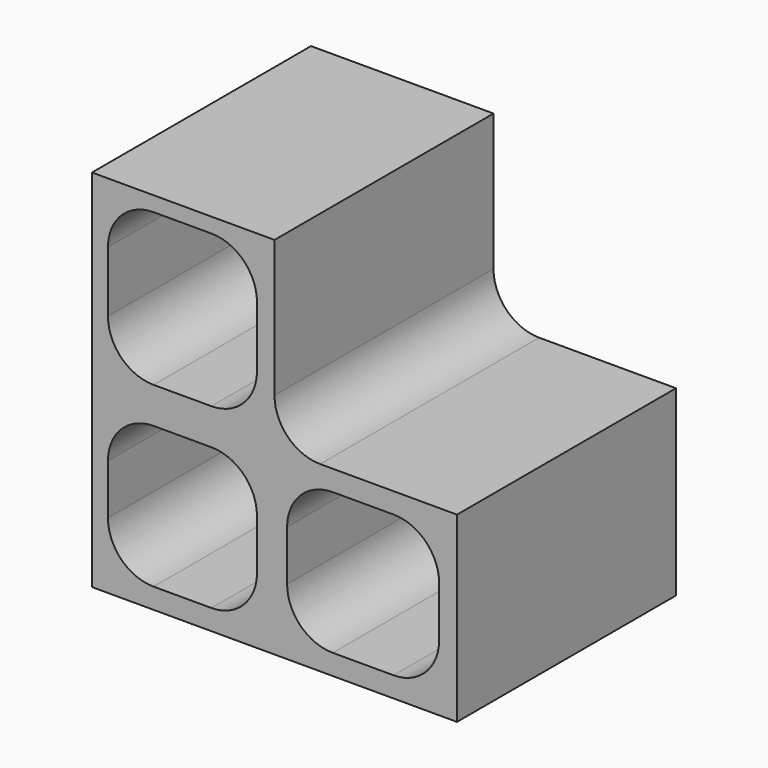
from build123d import *

# Parameters (mm, degrees)
F0_W     = 40
F0_H     = 40
F1_DEPTH = 30
F2_W     = 20
F2_H     = 20
F2_W_2   = 16.331926
F2_H_2   = 16.661864
F2_H_3   = 15.507082
F2_W_3   = 16.661866
F3_DEPTH = 30
F4_R     = 5


with BuildPart() as f1:
    # F0 (on Front) → F1 (new body)
    with BuildSketch(Plane.XZ):
        Rectangle(F0_W, F0_H)
    extrude(amount=F1_DEPTH)

    # F2 (on face) → F3 (cut, through all)
    with BuildSketch(Plane.XZ.offset(30)):
        with Locations((10, 10)):
            Rectangle(F2_W, F2_H)
        with Locations((-10.085583, 10.036508)):
            Rectangle(F2_W_2, F2_H_2)
        with Locations((-10.085583, -10.00722)):
            Rectangle(F2_W_2, F2_H_3)
        with Locations((9.710691, -10.00722)):
            Rectangle(F2_W_3, F2_H_3)
    extrude(amount=-F3_DEPTH, mode=Mode.SUBTRACT)

    # F4
    f4_edges = [f1.edges().sort_by_distance(p)[0] for p in [
        (0, -15, 0),
        (-18.251546, -15, 18.36744),
        (-1.91962, -15, 18.36744),
        (-18.251546, -15, 1.705576),
        (-1.91962, -15, 1.705576),
        (-1.91962, -15, -17.760761),
        (18.041624, -15, -17.760761),
        (18.041624, -15, -2.253679),
        (-1.91962, -15, -2.253679),
        (-18.251546, -15, -2.253679),
        (1.379758, -15, -2.253679),
        (-18.251546, -15, -17.760761),
        (1.379758, -15, -17.760761),
    ]]
    fillet(f4_edges, radius=F4_R)


solid = f1.part
